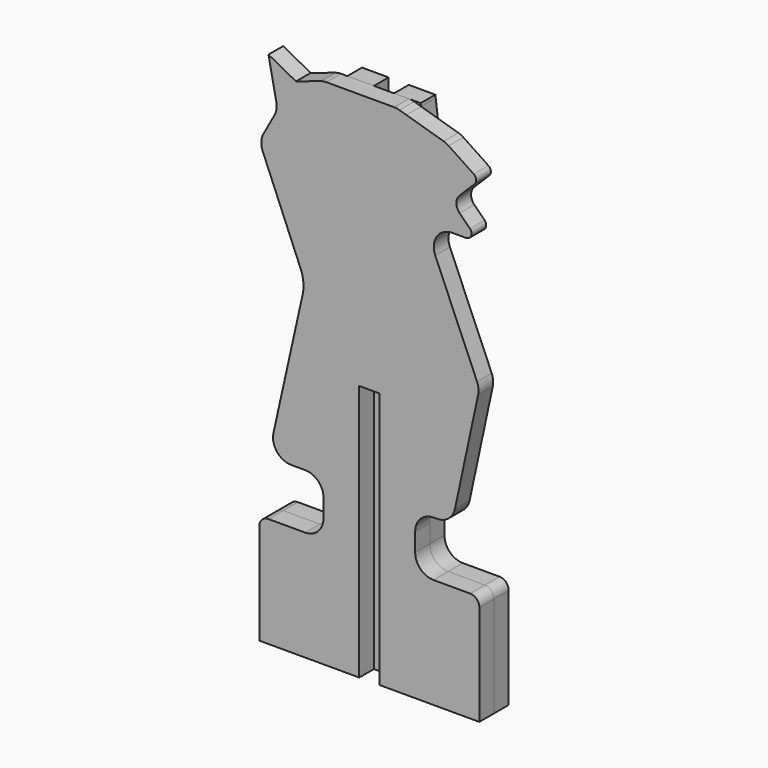
from build123d import *

# Parameters (mm, degrees)
F0_W     = 11
F0_H     = 140
F1_DEPTH = 10
F2_DEPTH = 10


with BuildPart() as f1:
    # F0 (on Front) → F1 (new body)
    with BuildSketch(Plane.XZ):
        with BuildLine():
            Line((25, 210), (25, 50))
            ThreePointArc((25, 50), (27.9289321881, 57.0710678119), (35, 60))
            Line((35, 60), (36.9158420977, 60))
            ThreePointArc((36.9158420977, 60), (43.202617548, 62.2233391204), (46.6938662384, 67.9047091127))
            Line((46.6938662384, 67.9047091127), (59.3334554888, 126.8894589477))
            ThreePointArc((59.3334554888, 126.8894589477), (59.5085207702, 129.9522264264), (58.7468816482, 132.9239428208))
            Line((58.7468816482, 132.9239428208), (35.9739398511, 186.0608070142))
            ThreePointArc((35.9739398511, 186.0608070142), (36.8169792289, 195.5049100875), (45.1653901512, 200))
            Line((45.1653901512, 200), (52.7573593129, 200))
            ThreePointArc((52.7573593129, 200), (55.5289979104, 201.8519497029), (54.8786796564, 205.1213203436))
            Line((54.8786796564, 205.1213203436), (49.2426406871, 210.7573593129))
            ThreePointArc((49.2426406871, 210.7573593129), (47.4852813742, 215), (49.2426406871, 219.2426406871))
            Line((49.2426406871, 219.2426406871), (57.412405166, 227.412405166))
            ThreePointArc((57.412405166, 227.412405166), (58.2764848025, 229.8293383635), (56.9551854111, 232.0298763926))
            Line((56.9551854111, 232.0298763926), (43.2572961637, 241.1618025575))
            ThreePointArc((43.2572961637, 241.1618025575), (41.951848164, 241.8971938264), (40.5511774984, 242.4292807412))
            Line((40.5511774984, 242.4292807412), (20.1923076923, 248.4615384615))
            Line((20.1923076923, 248.4615384615), (25, 210))
        make_face()
        with BuildLine():
            Line((-25, 210), (-20, 250))
            Line((-20, 250), (-23.3772233983, 250))
            ThreePointArc((-23.3772233983, 250), (-24.9790458284, 249.8708745764), (-26.5395010585, 249.4868329805))
            Line((-26.5395010585, 249.4868329805), (-40, 245))
            Line((-40, 245), (-55, 253))
            Line((-55, 253), (-50.7208778634, 231.6043893169))
            ThreePointArc((-50.7208778634, 231.6043893169), (-50.6463401243, 228.1008944607), (-51.7851118591, 224.7867986537))
            Line((-51.7851118591, 224.7867986537), (-57.6484155512, 214.2328520078))
            ThreePointArc((-57.6484155512, 214.2328520078), (-58.8910807466, 209.9376645562), (-58.1376120208, 205.5302688499))
            Line((-58.1376120208, 205.5302688499), (-37.4363520563, 155.8472449351))
            ThreePointArc((-37.4363520563, 155.8472449351), (-35.9753879675, 149.9138835563), (-36.3741493141, 143.8163280864))
            Line((-36.3741493141, 143.8163280864), (-52.2957100937, 72.1693045782))
            ThreePointArc((-52.2957100937, 72.1693045782), (-50.3342576147, 63.7427260641), (-42.5338394919, 60))
            Line((-42.5338394919, 60), (-35, 60))
            ThreePointArc((-35, 60), (-27.9289321881, 57.0710678119), (-25, 50))
            Line((-25, 50), (-25, 210))
        make_face()
        with BuildLine():
            Line((-60, -30), (-5.5, -30))
            Line((-5.5, -30), (-5.5, 110))
            Line((-5.5, 110), (-5.5, 250))
            Line((-5.5, 250), (-20, 250))
            Line((-20, 250), (-25, 210))
            Line((-25, 210), (-25, 50))
            Line((-25, 50), (-25, 40))
            ThreePointArc((-25, 40), (-27.9289321881, 32.9289321881), (-35, 30))
            Line((-35, 30), (-55, 30))
            ThreePointArc((-55, 30), (-58.5355339059, 28.5355339059), (-60, 25))
            Line((-60, 25), (-60, -30))
        make_face()
        with Locations((0, 180)):
            Rectangle(F0_W, F0_H)
        with BuildLine():
            ThreePointArc((60, 25), (58.5355339059, 28.5355339059), (55, 30))
            Line((55, 30), (35, 30))
            ThreePointArc((35, 30), (27.9289321881, 32.9289321881), (25, 40))
            Line((25, 40), (25, 50))
            Line((25, 50), (25, 210))
            Line((25, 210), (20.1923076923, 248.4615384615))
            Line((20.1923076923, 248.4615384615), (16.3905636961, 249.5879811271))
            ThreePointArc((16.3905636961, 249.5879811271), (14.9849832817, 249.8964592474), (13.5496803992, 250))
            Line((13.5496803992, 250), (5.5, 250))
            Line((5.5, 250), (5.5, 110))
            Line((5.5, 110), (5.5, -30))
            Line((5.5, -30), (60, -30))
            Line((60, -30), (60, 25))
        make_face()
    extrude(amount=F1_DEPTH)


with BuildPart() as f2:
    # F0 (on Front) → F2 (new body)
    with BuildSketch(Plane.XZ):
        with BuildLine():
            Line((-60, -30), (-5.5, -30))
            Line((-5.5, -30), (-5.5, 110))
            Line((-5.5, 110), (-5.5, 250))
            Line((-5.5, 250), (-20, 250))
            Line((-20, 250), (-25, 210))
            Line((-25, 210), (-25, 50))
            Line((-25, 50), (-25, 40))
            ThreePointArc((-25, 40), (-27.9289321881, 32.9289321881), (-35, 30))
            Line((-35, 30), (-55, 30))
            ThreePointArc((-55, 30), (-58.5355339059, 28.5355339059), (-60, 25))
            Line((-60, 25), (-60, -30))
        make_face()
        with BuildLine():
            ThreePointArc((60, 25), (58.5355339059, 28.5355339059), (55, 30))
            Line((55, 30), (35, 30))
            ThreePointArc((35, 30), (27.9289321881, 32.9289321881), (25, 40))
            Line((25, 40), (25, 50))
            Line((25, 50), (25, 210))
            Line((25, 210), (20.1923076923, 248.4615384615))
            Line((20.1923076923, 248.4615384615), (16.3905636961, 249.5879811271))
            ThreePointArc((16.3905636961, 249.5879811271), (14.9849832817, 249.8964592474), (13.5496803992, 250))
            Line((13.5496803992, 250), (5.5, 250))
            Line((5.5, 250), (5.5, 110))
            Line((5.5, 110), (5.5, -30))
            Line((5.5, -30), (60, -30))
            Line((60, -30), (60, 25))
        make_face()
        with Locations((0, 40)):
            Rectangle(F0_W, F0_H)
        with BuildLine():
            Line((16.3905636961, 249.5879811271), (20.1923076923, 248.4615384615))
            Line((20.1923076923, 248.4615384615), (20, 250))
            Line((20, 250), (13.5496803992, 250))
            ThreePointArc((13.5496803992, 250), (14.9849832817, 249.8964592474), (16.3905636961, 249.5879811271))
        make_face()
    extrude(amount=-F2_DEPTH)


solid = Compound([f1.part, f2.part])
